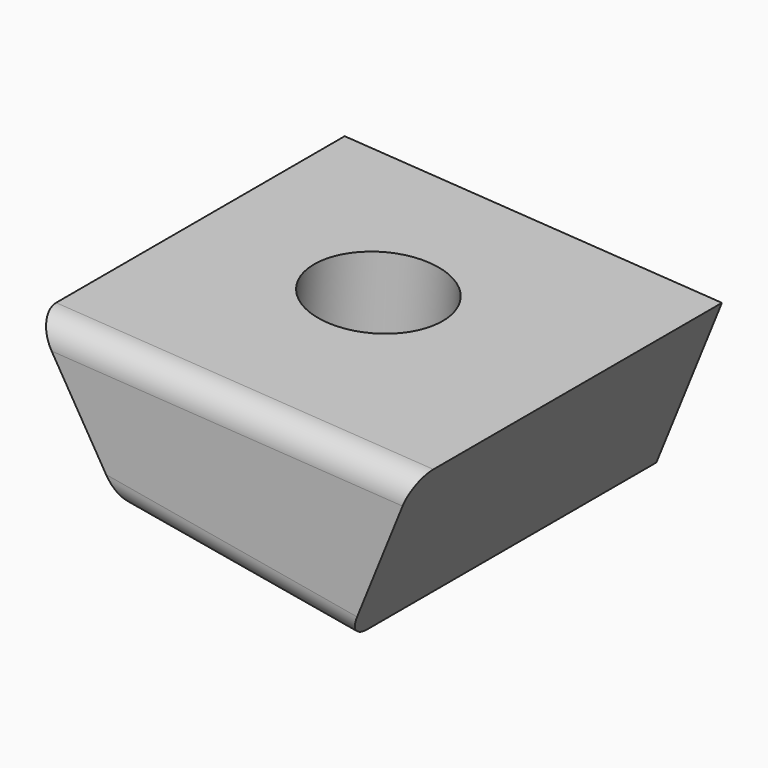
from build123d import *

# Parameters (mm, degrees)
F1_DEPTH = 76.2
F2_R     = 5.08
F3_R     = 5.08
F5_D     = 25.4


with BuildPart() as f1:
    # F0 (on Front) → F1 (new body)
    with BuildSketch(Plane.XZ):
        Polygon((12.929662, 52.085873), (-61.460182, 56.824941), (-44.102553, 27.828874), (0, 20.160461), align=None)
    extrude(amount=-F1_DEPTH)

    # F2
    f2_edges = [f1.edges().sort_by_distance(p)[0] for p in [
        (-24.26526, 0, 54.455407),
    ]]
    fillet(f2_edges, radius=F2_R)

    # F3
    f3_edges = [f1.edges().sort_by_distance(p)[0] for p in [
        (-22.051277, 0, 23.994667),
    ]]
    fillet(f3_edges, radius=F3_R)

    # F5 (through all)
    with Locations(Plane(origin=(3.357025, 0, 52.695706), x_dir=(0.997977, 0, -0.063577), z_dir=(0.063577, 0, 0.997977))):
        with Locations((-30.832324, 41.9522)):
            Hole(F5_D / 2)


solid = f1.part
